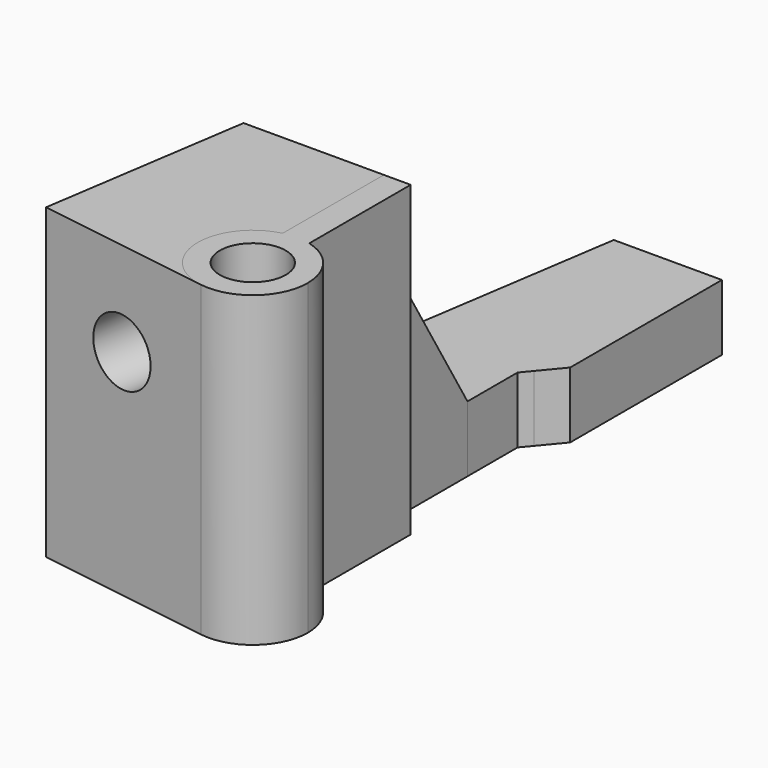
from build123d import *

# Parameters (mm, degrees)
F0_R     = 1.5
F1_DEPTH = 14
F2_DEPTH = 14
F3_DEPTH = 10.4
F4_DEPTH = 3
F5_SIZE2 = 4.4
F5_SIZE  = 7.4
F7_D     = 3
F7_DEPTH = 4
F7_TIP   = 0.9012909285


with BuildPart() as f1:
    # F0 (on Top) → F1 (new body)
    with BuildSketch(Plane.XY):
        with BuildLine():
            ThreePointArc((-14.1477591004, -12.9344832561), (-14.668169588, -11.4076481759), (-16.0127393901, -10.5164778865))
            ThreePointArc((-16.0127393901, -10.5164778865), (-16.6218795262, -10.4346172102), (-17.2325838357, -10.5038495879))
            ThreePointArc((-17.2325838357, -10.5038495879), (-19.1454623716, -13.0416204075), (-17.022298185, -15.4062681323))
            ThreePointArc((-17.022298185, -15.4062681323), (-15.0177817557, -14.8300501517), (-14.1477591004, -12.9344832561))
        make_face()
        with Locations((-16.6477591004, -12.9344832561)):
            Circle(F0_R, mode=Mode.SUBTRACT)
        with BuildLine():
            Line((-16.0127393901, -10.5164778865), (-16.0127393901, -4.7539807856))
            Line((-16.0127393901, -4.7539807856), (-17.2325838357, -4.7539807856))
            Line((-17.2325838357, -4.7539807856), (-17.2325838357, -10.5038495879))
            ThreePointArc((-17.2325838357, -10.5038495879), (-16.6218795262, -10.4346172102), (-16.0127393901, -10.5164778865))
        make_face()
    extrude(amount=F1_DEPTH)


with BuildPart() as f2:
    # F0 (on Top) → F2 (new body)
    with BuildSketch(Plane.XY):
        with BuildLine():
            Line((-17.2325838357, -10.5038495879), (-17.2325838357, -4.7539807856))
            Line((-17.2325838357, -4.7539807856), (-23.6115734637, -4.7539807856))
            Line((-23.6115734637, -4.7539807856), (-25.0415470069, -14.1911453514))
            Line((-25.0415470069, -14.1911453514), (-17.022298185, -15.4062681323))
            ThreePointArc((-17.022298185, -15.4062681323), (-19.1454623716, -13.0416204075), (-17.2325838357, -10.5038495879))
        make_face()
    extrude(amount=F2_DEPTH)

    # F7
    with Locations(Plane(origin=(-2.6641112831, -17.5819033302, 0), x_dir=(0.9887139505, -0.1498156338, 0), z_dir=(-0.1498156338, -0.9887139505, 0))):
        with Locations((-18.6634268612, 9.7296228632)):
            Hole(F7_D / 2, depth=F7_DEPTH)
            with Locations((0, 0, -(F7_DEPTH + F7_TIP / 2))):  # 118° drill point
                Cone(0, F7_D / 2, F7_TIP, mode=Mode.SUBTRACT)


with BuildPart() as f3:
    # F0 (on Top) → F3 (new body)
    with BuildSketch(Plane.XY):
        Polygon((-23.6115734637, -4.7539807856), (-17.2325838357, -4.7539807856), (-17.2325838357, 0), (-22.8912229071, 0), align=None)
    extrude(amount=F3_DEPTH)

    # F5
    f5_edges = [f3.edges().sort_by_distance(p)[0] for p in [
        (-20.061903, 0, 10.4),
    ]]
    f5_side = f3.faces().sort_by_distance((-20.061903, 0, 5.2))[0]
    chamfer(f5_edges, length=F5_SIZE, length2=F5_SIZE2, reference=f5_side)


with BuildPart() as f4:
    # F0 (on Top) → F4 (new body)
    with BuildSketch(Plane.XY):
        Polygon((-22.8912229071, 0), (-17.2325838357, 0), (-17.2325838357, 2.8447443619), (-16.8538745493, 3.2991392072), (-16.0127393901, 4.3138256297), (-16.0127393901, 12.936996296), (-19.2249324173, 12.936996296), (-20.9309346974, 12.936996296), align=None)
    extrude(amount=F4_DEPTH)


solid = Compound([f1.part, f2.part, f3.part, f4.part])
